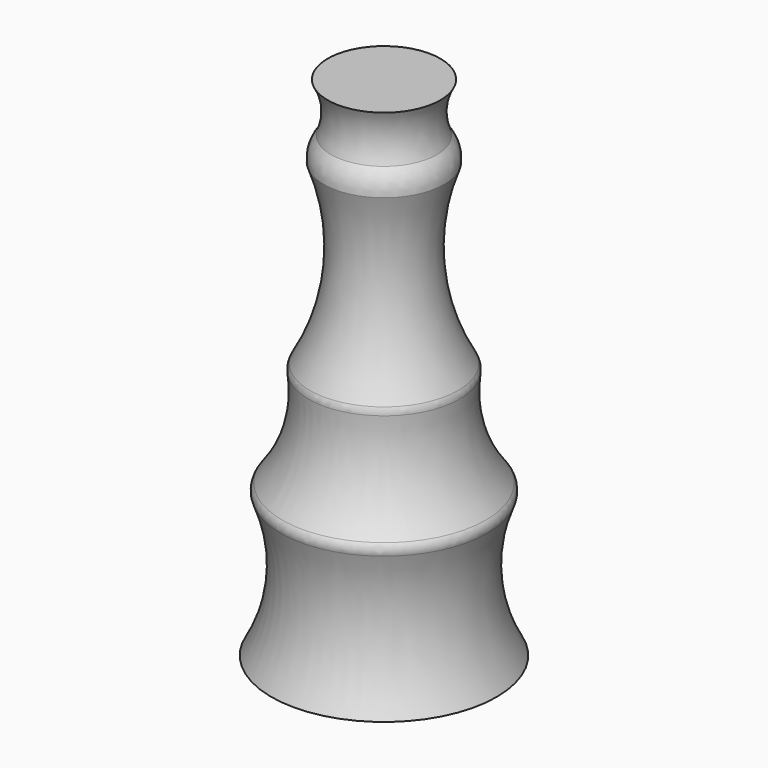
from build123d import *

# Parameters (mm, degrees)
F2_R = 4


with BuildPart() as f1:
    # F0 (on Front) → F1 (revolve)
    with BuildSketch(Plane.XZ):
        with BuildLine():
            Line((0, 180), (0, 0))
            Line((0, 0), (40, 0))
            ThreePointArc((40, 0), (32.538114, 25.815038), (37.575505, 52.210504))
            ThreePointArc((37.575505, 52.210504), (28.101816, 70.006211), (26.999903, 90.136381))
            ThreePointArc((26.999903, 90.136381), (16.82912, 121.500761), (21.415917, 154.152415))
            ThreePointArc((21.415917, 154.152415), (20.945571, 158.627031), (18.790591, 162.576649))
            ThreePointArc((18.790591, 162.576649), (17.424024, 171.425157), (20, 180))
            Line((20, 180), (0, 180))
        make_face()
    revolve(axis=Axis((0, 0, 49.245128), (0, 0, -1)))

    # F2
    f2_edges = [f1.edges().sort_by_distance(p)[0] for p in [
        (-37.575505, 0, 52.210504),
        (-26.999903, 0, 90.136381),
    ]]
    fillet(f2_edges, radius=F2_R)


solid = f1.part
